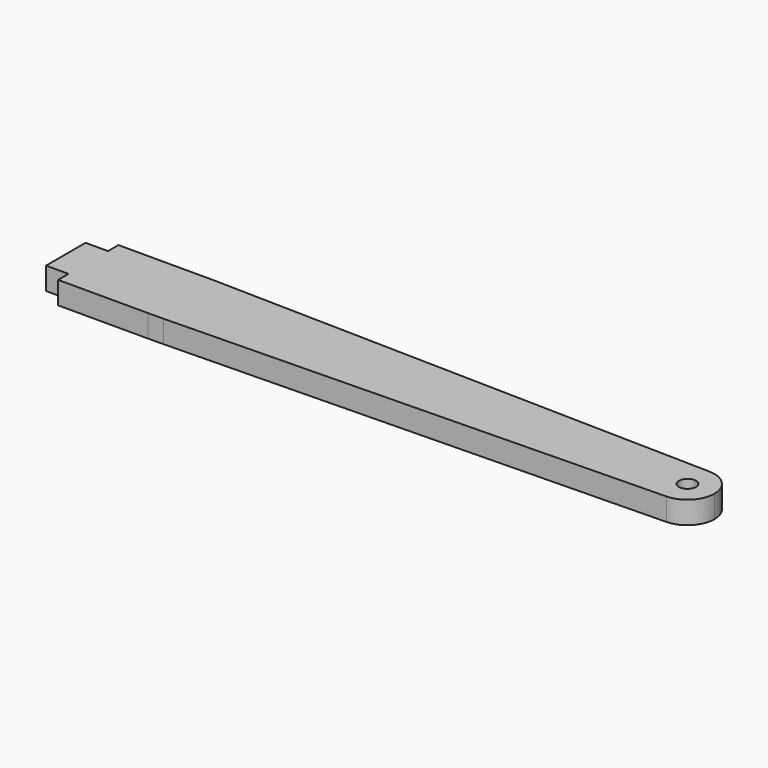
from build123d import *

# Parameters (mm, degrees)
F1_DEPTH = 6.35
F2_R     = 2.413
F3_DEPTH = 6.351


with BuildPart() as f1:
    # F0 (on Top) → F1 (new body)
    with BuildSketch(Plane.XY):
        with BuildLine():
            Line((-6.35, 6.985), (-6.35, 0))
            Line((-6.35, 0), (-6.35, -6.985))
            Line((-6.35, -6.985), (0, -6.985))
            Line((0, -6.985), (0, -10.668))
            Line((0, -10.668), (25.4, -10.668))
            ThreePointArc((25.4, -10.668), (27.579726, -10.656309), (29.759202, -10.621236))
            Line((29.759202, -10.621236), (169.70847, -7.618246))
            ThreePointArc((169.70847, -7.618246), (174.990642, -5.330045), (177.165, 0))
            ThreePointArc((177.165, 0), (174.990642, 5.330045), (169.70847, 7.618246))
            Line((169.70847, 7.618246), (29.759202, 10.621236))
            ThreePointArc((29.759202, 10.621236), (27.579726, 10.656309), (25.4, 10.668))
            Line((25.4, 10.668), (0, 10.668))
            Line((0, 10.668), (0, 6.985))
            Line((0, 6.985), (-6.35, 6.985))
        make_face()
    extrude(amount=F1_DEPTH)

    # F2 (on face) → F3 (cut, through all)
    with BuildSketch(Plane.XY.offset(6.35)):
        with Locations((169.545, 0)):
            Circle(F2_R)
    extrude(amount=-F3_DEPTH, mode=Mode.SUBTRACT)


solid = f1.part
